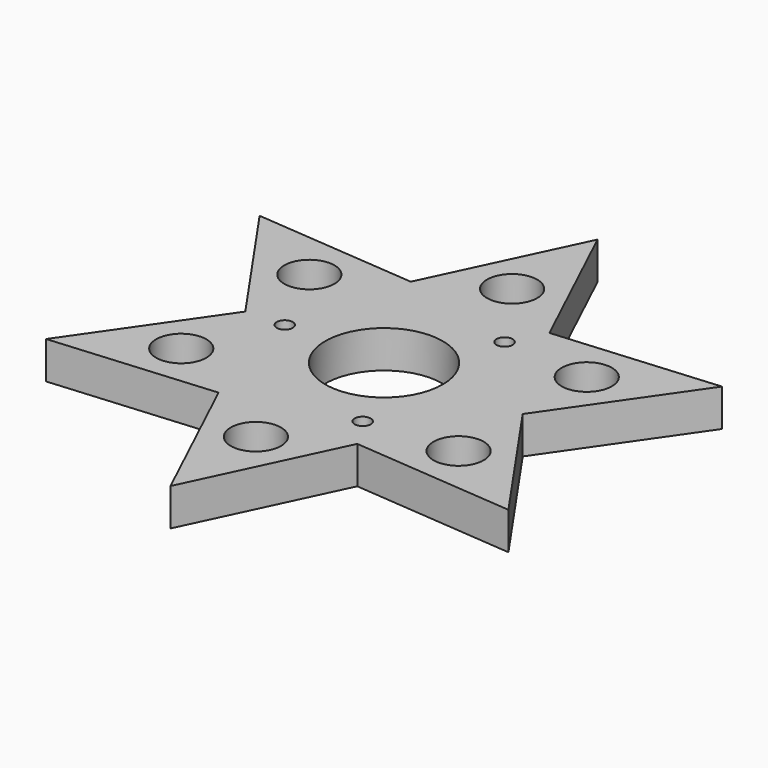
from build123d import *

# Parameters (mm, degrees)
F0_R     = 4.7
F0_R_2   = 1.5
F0_R_3   = 11
F1_DEPTH = 7


with BuildPart() as f1:
    # F0 (on Top) → F1 (new body)
    with BuildSketch(Plane.XY):
        Polygon((0, 50), (-12.990381, 22.5), (-43.30127, 25), (-25.980762, 0), (-43.30127, -25), (-12.990381, -22.5), (0, -50), (12.990381, -22.5), (43.30127, -25), (25.980762, 0), (43.30127, 25), (12.990381, 22.5), align=None)
        with Locations((-25.980762, -15)):
            Circle(F0_R, mode=Mode.SUBTRACT)
        with Locations((0, -30)):
            Circle(F0_R, mode=Mode.SUBTRACT)
        with Locations((9.162517, -16.443578)):
            Circle(F0_R_2, mode=Mode.SUBTRACT)
        with Locations((25.980762, -15)):
            Circle(F0_R, mode=Mode.SUBTRACT)
        with Locations((-25.980762, 15)):
            Circle(F0_R, mode=Mode.SUBTRACT)
        with Locations((-18.821814, 0.286817)):
            Circle(F0_R_2, mode=Mode.SUBTRACT)
        Circle(F0_R_3, mode=Mode.SUBTRACT)
        with Locations((9.659298, 16.156761)):
            Circle(F0_R_2, mode=Mode.SUBTRACT)
        with Locations((25.980762, 15)):
            Circle(F0_R, mode=Mode.SUBTRACT)
        with Locations((0, 30)):
            Circle(F0_R, mode=Mode.SUBTRACT)
    extrude(amount=F1_DEPTH)


solid = f1.part
